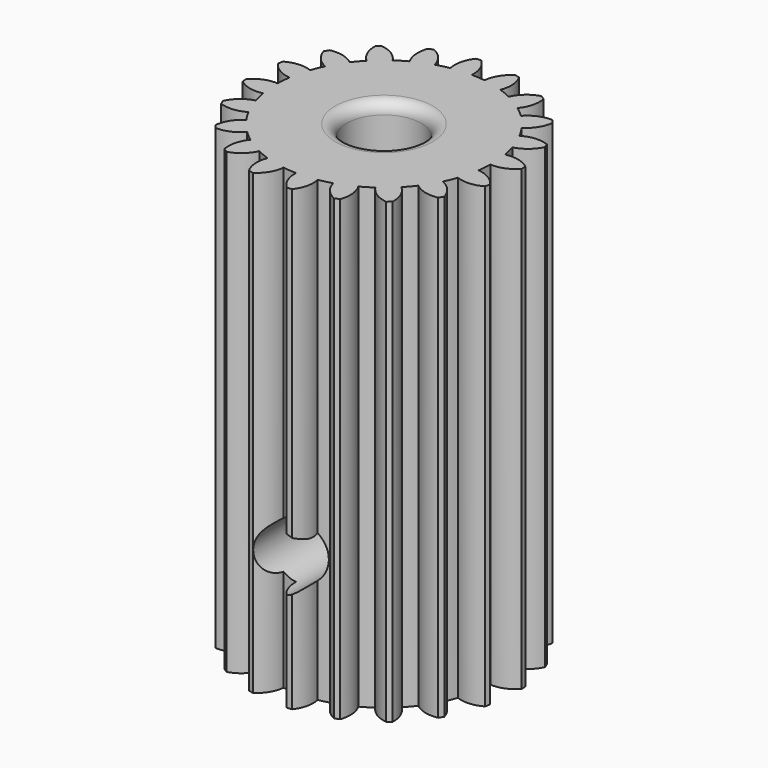
from build123d import *

# Parameters (mm, degrees)
F1_R     = 3.25
F2_DEPTH = 40
F4_R     = 2.45
F5_DEPTH = 30
F6_R     = 1


with BuildPart() as f2:
    # F1 (on Top) → F2 (new body)
    with BuildSketch(Plane.XY):
        with BuildLine():
            ThreePointArc((-1.6229776334, 9.2680599554), (-0.7382287643, 9.3800858219), (0.1531520845, 9.4078443957))
            ThreePointArc((0.1531520845, 9.4078443957), (-0.0317997207, 10.5374998224), (-0.6817601701, 11.4797736507))
            Line((-0.6817601701, 11.4797736507), (-1.1224656787, 11.4450893749))
            ThreePointArc((-1.1224656787, 11.4450893749), (-1.6170199342, 10.4127402859), (-1.6229776334, 9.2680599554))
        make_face()
        with BuildLine():
            ThreePointArc((9.4078443957, -0.1531520845), (9.4087792756, -0.0765785786), (9.4090909091, 0))
            ThreePointArc((9.4090909091, 0), (9.3737668631, 0.8145468262), (9.2680599554, 1.6229776334))
            ThreePointArc((9.2680599554, 1.6229776334), (9.1491169783, 2.1965086508), (8.9947183137, 2.7615275108))
            ThreePointArc((8.9947183137, 2.7615275108), (8.6928665104, 3.6007032045), (8.3129211438, 4.4075314852))
            ThreePointArc((8.3129211438, 4.4075314852), (8.0225688191, 4.9162364953), (7.7011265332, 5.4058895526))
            ThreePointArc((7.7011265332, 5.4058895526), (7.1547288581, 6.1107157275), (6.5440556911, 6.7606454461))
            ThreePointArc((6.5440556911, 6.7606454461), (6.1107157275, 7.1547288581), (5.6536948308, 7.52108546))
            ThreePointArc((5.6536948308, 7.52108546), (4.9162364953, 8.0225688191), (4.1346124722, 8.4519803265))
            ThreePointArc((4.1346124722, 8.4519803265), (3.6007032045, 8.6928665104), (3.0528400867, 8.90006512))
            ThreePointArc((3.0528400867, 8.90006512), (2.1965086508, 9.1491169783), (1.320444577, 9.3159764842))
            ThreePointArc((1.320444577, 9.3159764842), (0.7382287643, 9.3800858219), (0.1531520845, 9.4078443957))
            ThreePointArc((0.1531520845, 9.4078443957), (-0.7382287643, 9.3800858219), (-1.6229776334, 9.2680599554))
            ThreePointArc((-1.6229776334, 9.2680599554), (-2.1965086508, 9.1491169783), (-2.7615275108, 8.9947183137))
            ThreePointArc((-2.7615275108, 8.9947183137), (-3.6007032045, 8.6928665104), (-4.4075314852, 8.3129211438))
            ThreePointArc((-4.4075314852, 8.3129211438), (-4.9162364953, 8.0225688191), (-5.4058895526, 7.7011265332))
            ThreePointArc((-5.4058895526, 7.7011265332), (-6.1107157275, 7.1547288581), (-6.7606454461, 6.5440556911))
            ThreePointArc((-6.7606454461, 6.5440556911), (-7.1547288581, 6.1107157275), (-7.52108546, 5.6536948308))
            ThreePointArc((-7.52108546, 5.6536948308), (-8.0225688191, 4.9162364953), (-8.4519803265, 4.1346124722))
            ThreePointArc((-8.4519803265, 4.1346124722), (-8.6928665104, 3.6007032045), (-8.90006512, 3.0528400867))
            ThreePointArc((-8.90006512, 3.0528400867), (-9.1491169783, 2.1965086508), (-9.3159764842, 1.320444577))
            ThreePointArc((-9.3159764842, 1.320444577), (-9.3800858219, 0.7382287643), (-9.4078443957, 0.1531520845))
            ThreePointArc((-9.4078443957, 0.1531520845), (-9.3800858219, -0.7382287643), (-9.2680599554, -1.6229776334))
            ThreePointArc((-9.2680599554, -1.6229776334), (-9.1491169783, -2.1965086508), (-8.9947183137, -2.7615275108))
            ThreePointArc((-8.9947183137, -2.7615275108), (-8.6928665104, -3.6007032045), (-8.3129211438, -4.4075314852))
            ThreePointArc((-8.3129211438, -4.4075314852), (-8.0225688191, -4.9162364953), (-7.7011265332, -5.4058895526))
            ThreePointArc((-7.7011265332, -5.4058895526), (-7.1547288581, -6.1107157275), (-6.5440556911, -6.7606454461))
            ThreePointArc((-6.5440556911, -6.7606454461), (-6.1107157275, -7.1547288581), (-5.6536948308, -7.52108546))
            ThreePointArc((-5.6536948308, -7.52108546), (-4.9162364953, -8.0225688191), (-4.1346124722, -8.4519803265))
            ThreePointArc((-4.1346124722, -8.4519803265), (-3.6007032045, -8.6928665104), (-3.0528400867, -8.90006512))
            ThreePointArc((-3.0528400867, -8.90006512), (-2.1965086508, -9.1491169783), (-1.320444577, -9.3159764842))
            ThreePointArc((-1.320444577, -9.3159764842), (-0.7382287643, -9.3800858219), (-0.1531520845, -9.4078443957))
            ThreePointArc((-0.1531520845, -9.4078443957), (0.7382287643, -9.3800858219), (1.6229776334, -9.2680599554))
            ThreePointArc((1.6229776334, -9.2680599554), (2.1965086508, -9.1491169783), (2.7615275108, -8.9947183137))
            ThreePointArc((2.7615275108, -8.9947183137), (3.6007032045, -8.6928665104), (4.4075314852, -8.3129211438))
            ThreePointArc((4.4075314852, -8.3129211438), (4.9162364953, -8.0225688191), (5.4058895526, -7.7011265332))
            ThreePointArc((5.4058895526, -7.7011265332), (6.1107157275, -7.1547288581), (6.7606454461, -6.5440556911))
            ThreePointArc((6.7606454461, -6.5440556911), (7.1547288581, -6.1107157275), (7.52108546, -5.6536948308))
            ThreePointArc((7.52108546, -5.6536948308), (8.0225688191, -4.9162364953), (8.4519803265, -4.1346124722))
            ThreePointArc((8.4519803265, -4.1346124722), (8.6928665104, -3.6007032045), (8.90006512, -3.0528400867))
            ThreePointArc((8.90006512, -3.0528400867), (9.1491169783, -2.1965086508), (9.3159764842, -1.320444577))
            ThreePointArc((9.3159764842, -1.320444577), (9.3800858219, -0.7382287643), (9.4078443957, -0.1531520845))
        make_face()
        Circle(F1_R, mode=Mode.SUBTRACT)
        with BuildLine():
            ThreePointArc((-4.4075314852, 8.3129211438), (-3.6007032045, 8.6928665104), (-2.7615275108, 8.9947183137))
            ThreePointArc((-2.7615275108, 8.9947183137), (-3.286509855, 10.0119312174), (-4.195837602, 10.7072380574))
            Line((-4.195837602, 10.7072380574), (-4.604255417, 10.5380658593))
            ThreePointArc((-4.604255417, 10.5380658593), (-4.7555910517, 9.4034178615), (-4.4075314852, 8.3129211438))
        make_face()
        with BuildLine():
            ThreePointArc((-6.7606454461, 6.5440556911), (-6.1107157275, 7.1547288581), (-5.4058895526, 7.7011265332))
            ThreePointArc((-5.4058895526, 7.7011265332), (-6.2195135061, 8.5063250277), (-7.2991972152, 8.8866034014))
            Line((-7.2991972152, 8.8866034014), (-7.6353485554, 8.5995030343))
            ThreePointArc((-7.6353485554, 8.5995030343), (-7.428651783, 7.4736233793), (-6.7606454461, 6.5440556911))
        make_face()
        with BuildLine():
            ThreePointArc((-8.4519803265, 4.1346124722), (-8.0225688191, 4.9162364953), (-7.52108546, 5.6536948308))
            ThreePointArc((-7.52108546, 5.6536948308), (-8.5437078414, 6.1680604771), (-9.6880605486, 6.1960860878))
            Line((-9.6880605486, 6.1960860878), (-9.9190405786, 5.8191609361))
            ThreePointArc((-9.9190405786, 5.8191609361), (-9.3745443193, 4.812258569), (-8.4519803265, 4.1346124722))
        make_face()
        with BuildLine():
            ThreePointArc((-9.3159764842, 1.320444577), (-9.1491169783, 2.1965086508), (-8.90006512, 3.0528400867))
            ThreePointArc((-8.90006512, 3.0528400867), (-10.0315845257, 3.2260231917), (-11.1285890147, 2.8990526973))
            Line((-11.1285890147, 2.8990526973), (-11.2317877999, 2.469198821))
            ThreePointArc((-11.2317877999, 2.469198821), (-10.4027911413, 1.679836361), (-9.3159764842, 1.320444577))
        make_face()
        with BuildLine():
            ThreePointArc((-9.2680599554, -1.6229776334), (-9.3800858219, -0.7382287643), (-9.4078443957, 0.1531520845))
            ThreePointArc((-9.4078443957, 0.1531520845), (-10.5374998224, -0.0317997207), (-11.4797736507, -0.6817601701))
            Line((-11.4797736507, -0.6817601701), (-11.4450893749, -1.1224656787))
            ThreePointArc((-11.4450893749, -1.1224656787), (-10.4127402859, -1.6170199342), (-9.2680599554, -1.6229776334))
        make_face()
        with BuildLine():
            ThreePointArc((-10.5380658593, -4.604255417), (-9.4034178615, -4.7555910517), (-8.3129211438, -4.4075314852))
            ThreePointArc((-8.3129211438, -4.4075314852), (-8.6928665104, -3.6007032045), (-8.9947183137, -2.7615275108))
            ThreePointArc((-8.9947183137, -2.7615275108), (-10.0119312174, -3.286509855), (-10.7072380574, -4.195837602))
            Line((-10.7072380574, -4.195837602), (-10.5380658593, -4.604255417))
        make_face()
        with BuildLine():
            ThreePointArc((-8.5995030343, -7.6353485554), (-7.4736233793, -7.428651783), (-6.5440556911, -6.7606454461))
            ThreePointArc((-6.5440556911, -6.7606454461), (-7.1547288581, -6.1107157275), (-7.7011265332, -5.4058895526))
            ThreePointArc((-7.7011265332, -5.4058895526), (-8.5063250277, -6.2195135061), (-8.8866034014, -7.2991972152))
            Line((-8.8866034014, -7.2991972152), (-8.5995030343, -7.6353485554))
        make_face()
        with BuildLine():
            ThreePointArc((-5.8191609361, -9.9190405786), (-4.812258569, -9.3745443193), (-4.1346124722, -8.4519803265))
            ThreePointArc((-4.1346124722, -8.4519803265), (-4.9162364953, -8.0225688191), (-5.6536948308, -7.52108546))
            ThreePointArc((-5.6536948308, -7.52108546), (-6.1680604771, -8.5437078414), (-6.1960860878, -9.6880605486))
            Line((-6.1960860878, -9.6880605486), (-5.8191609361, -9.9190405786))
        make_face()
        with BuildLine():
            ThreePointArc((-2.469198821, -11.2317877999), (-1.679836361, -10.4027911413), (-1.320444577, -9.3159764842))
            ThreePointArc((-1.320444577, -9.3159764842), (-2.1965086508, -9.1491169783), (-3.0528400867, -8.90006512))
            ThreePointArc((-3.0528400867, -8.90006512), (-3.2260231917, -10.0315845257), (-2.8990526973, -11.1285890147))
            Line((-2.8990526973, -11.1285890147), (-2.469198821, -11.2317877999))
        make_face()
        with BuildLine():
            ThreePointArc((1.1224656787, -11.4450893749), (1.6170199342, -10.4127402859), (1.6229776334, -9.2680599554))
            ThreePointArc((1.6229776334, -9.2680599554), (0.7382287643, -9.3800858219), (-0.1531520845, -9.4078443957))
            ThreePointArc((-0.1531520845, -9.4078443957), (0.0317997207, -10.5374998224), (0.6817601701, -11.4797736507))
            Line((0.6817601701, -11.4797736507), (1.1224656787, -11.4450893749))
        make_face()
        with BuildLine():
            ThreePointArc((4.604255417, -10.5380658593), (4.7555910517, -9.4034178615), (4.4075314852, -8.3129211438))
            ThreePointArc((4.4075314852, -8.3129211438), (3.6007032045, -8.6928665104), (2.7615275108, -8.9947183137))
            ThreePointArc((2.7615275108, -8.9947183137), (3.286509855, -10.0119312174), (4.195837602, -10.7072380574))
            Line((4.195837602, -10.7072380574), (4.604255417, -10.5380658593))
        make_face()
        with BuildLine():
            ThreePointArc((7.6353485554, -8.5995030343), (7.428651783, -7.4736233793), (6.7606454461, -6.5440556911))
            ThreePointArc((6.7606454461, -6.5440556911), (6.1107157275, -7.1547288581), (5.4058895526, -7.7011265332))
            ThreePointArc((5.4058895526, -7.7011265332), (6.2195135061, -8.5063250277), (7.2991972152, -8.8866034014))
            Line((7.2991972152, -8.8866034014), (7.6353485554, -8.5995030343))
        make_face()
        with BuildLine():
            ThreePointArc((9.9190405786, -5.8191609361), (9.3745443193, -4.812258569), (8.4519803265, -4.1346124722))
            ThreePointArc((8.4519803265, -4.1346124722), (8.0225688191, -4.9162364953), (7.52108546, -5.6536948308))
            ThreePointArc((7.52108546, -5.6536948308), (8.5437078414, -6.1680604771), (9.6880605486, -6.1960860878))
            Line((9.6880605486, -6.1960860878), (9.9190405786, -5.8191609361))
        make_face()
        with BuildLine():
            ThreePointArc((11.2317877999, -2.469198821), (10.4027911413, -1.679836361), (9.3159764842, -1.320444577))
            ThreePointArc((9.3159764842, -1.320444577), (9.1491169783, -2.1965086508), (8.90006512, -3.0528400867))
            ThreePointArc((8.90006512, -3.0528400867), (10.0315845257, -3.2260231917), (11.1285890147, -2.8990526973))
            Line((11.1285890147, -2.8990526973), (11.2317877999, -2.469198821))
        make_face()
        with BuildLine():
            ThreePointArc((9.2680599554, 1.6229776334), (9.3737668631, 0.8145468262), (9.4090909091, 0))
            ThreePointArc((9.4090909091, 0), (9.4087792756, -0.0765785786), (9.4078443957, -0.1531520845))
            ThreePointArc((9.4078443957, -0.1531520845), (10.5374998224, 0.0317997207), (11.4797736507, 0.6817601701))
            Line((11.4797736507, 0.6817601701), (11.4450893749, 1.1224656787))
            ThreePointArc((11.4450893749, 1.1224656787), (10.4127402859, 1.6170199342), (9.2680599554, 1.6229776334))
        make_face()
        with BuildLine():
            ThreePointArc((8.3129211438, 4.4075314852), (8.6928665104, 3.6007032045), (8.9947183137, 2.7615275108))
            ThreePointArc((8.9947183137, 2.7615275108), (10.0119312174, 3.286509855), (10.7072380574, 4.195837602))
            Line((10.7072380574, 4.195837602), (10.5380658593, 4.604255417))
            ThreePointArc((10.5380658593, 4.604255417), (9.4034178615, 4.7555910517), (8.3129211438, 4.4075314852))
        make_face()
        with BuildLine():
            ThreePointArc((6.5440556911, 6.7606454461), (7.1547288581, 6.1107157275), (7.7011265332, 5.4058895526))
            ThreePointArc((7.7011265332, 5.4058895526), (8.5063250277, 6.2195135061), (8.8866034014, 7.2991972152))
            Line((8.8866034014, 7.2991972152), (8.5995030343, 7.6353485554))
            ThreePointArc((8.5995030343, 7.6353485554), (7.4736233793, 7.428651783), (6.5440556911, 6.7606454461))
        make_face()
        with BuildLine():
            ThreePointArc((4.1346124722, 8.4519803265), (4.9162364953, 8.0225688191), (5.6536948308, 7.52108546))
            ThreePointArc((5.6536948308, 7.52108546), (6.1680604771, 8.5437078414), (6.1960860878, 9.6880605486))
            Line((6.1960860878, 9.6880605486), (5.8191609361, 9.9190405786))
            ThreePointArc((5.8191609361, 9.9190405786), (4.812258569, 9.3745443193), (4.1346124722, 8.4519803265))
        make_face()
        with BuildLine():
            ThreePointArc((1.320444577, 9.3159764842), (2.1965086508, 9.1491169783), (3.0528400867, 8.90006512))
            ThreePointArc((3.0528400867, 8.90006512), (3.2260231917, 10.0315845257), (2.8990526973, 11.1285890147))
            Line((2.8990526973, 11.1285890147), (2.469198821, 11.2317877999))
            ThreePointArc((2.469198821, 11.2317877999), (1.679836361, 10.4027911413), (1.320444577, 9.3159764842))
        make_face()
    extrude(amount=F2_DEPTH)

    # F4 (on offset) → F5 (cut)
    with BuildSketch(Plane.XZ.offset(15)):
        with Locations((0, 11)):
            Circle(F4_R)
    extrude(amount=-F5_DEPTH, mode=Mode.SUBTRACT)

    # F6
    f6_edges = [f2.edges().sort_by_distance(p)[0] for p in [
        (-3.25, 0, 40),
        (-3.25, 0, 0),
    ]]
    fillet(f6_edges, radius=F6_R)


solid = f2.part
